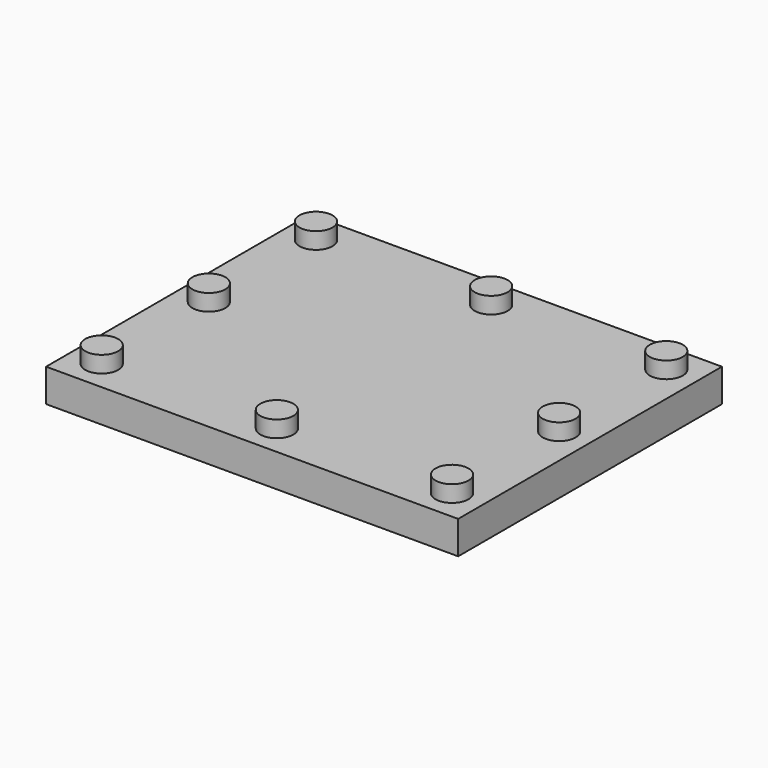
from build123d import *

# Parameters (mm, degrees)
F1_W     = 15
F1_H     = 12
F2_DEPTH = 1.2
F3_R     = 0.6
F4_DEPTH = 0.6


with BuildPart() as f2:
    # F1 (on Top) → F2 (new body)
    with BuildSketch(Plane.XY):
        Rectangle(F1_W, F1_H)
    extrude(amount=F2_DEPTH)

    # F3 (on face) → F4 (join)
    with BuildSketch(Plane.XY.offset(1.2)):
        with Locations((-6.375, 4.875)):
            Circle(F3_R)
        with Locations((-6.375, 0)):
            Circle(F3_R)
        with Locations((-6.375, -4.875)):
            Circle(F3_R)
        with Locations((0, 4.875)):
            Circle(F3_R)
        with Locations((6.375, 4.875)):
            Circle(F3_R)
        with Locations((6.375, 0)):
            Circle(F3_R)
        with Locations((6.375, -4.875)):
            Circle(F3_R)
        with Locations((0, -4.875)):
            Circle(F3_R)
    extrude(amount=F4_DEPTH)


solid = f2.part
